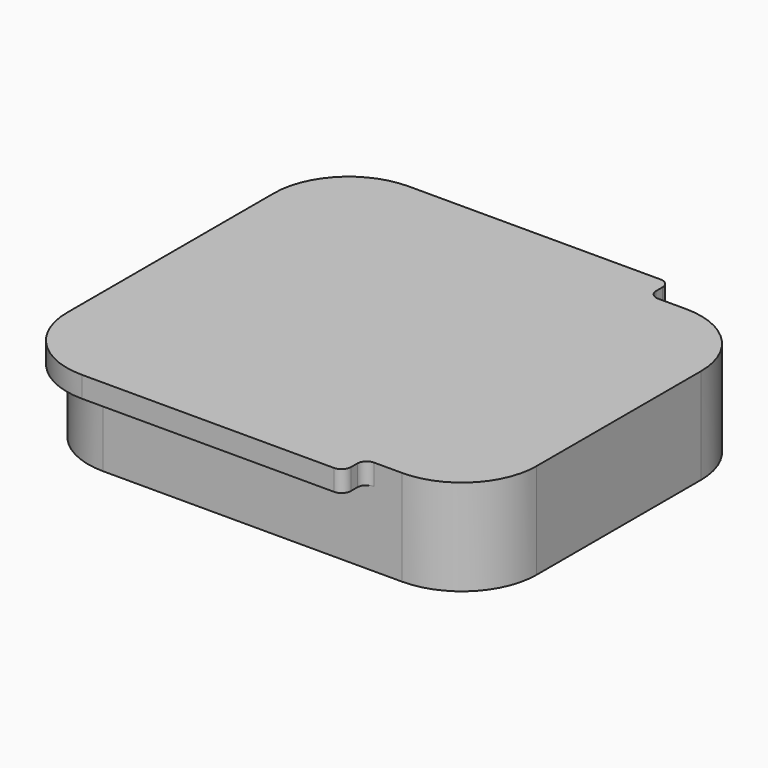
from build123d import *

# Parameters (mm, degrees)
F1_DEPTH = 10.25
F2_W     = 36
F2_H     = 43.7
F3_DEPTH = 2.25
F4_R     = 8
F5_R     = 1
F6_R     = 1
F8_DEPTH = 8
F9_DEPTH = 2.5


with BuildPart() as f1:
    # F0 (on Top) → F1 (new body)
    with BuildSketch(Plane.XY):
        with BuildLine():
            Line((16, 19), (-16, 19))
            ThreePointArc((-16, 19), (-21.6568542495, 16.6568542495), (-24, 11))
            Line((-24, 11), (-24, -11))
            ThreePointArc((-24, -11), (-21.6568542495, -16.6568542495), (-16, -19))
            Line((-16, -19), (16, -19))
            ThreePointArc((16, -19), (21.6568542495, -16.6568542495), (24, -11))
            Line((24, -11), (24, 11))
            ThreePointArc((24, 11), (21.6568542495, 16.6568542495), (16, 19))
        make_face()
    extrude(amount=F1_DEPTH)

    # F2 (on face) → F3 (join)
    with BuildSketch(Plane.XY.offset(10.25)):
        with Locations((-6, 0)):
            Rectangle(F2_W, F2_H)
    extrude(amount=-F3_DEPTH)

    # F4
    f4_edges = [f1.edges().sort_by_distance(p)[0] for p in [
        (-24, -21.85, 9.125),
        (-24, 21.85, 9.125),
    ]]
    fillet(f4_edges, radius=F4_R)

    # F5
    f5_edges = [f1.edges().sort_by_distance(p)[0] for p in [
        (12, -21.85, 9.125),
        (12, 21.85, 9.125),
    ]]
    fillet(f5_edges, radius=F5_R)

    # F6
    f6_edges = [f1.edges().sort_by_distance(p)[0] for p in [
        (12, 19, 9.125),
        (12, -19, 9.125),
    ]]
    fillet(f6_edges, radius=F6_R)

    # F7 (on face) → F8 (cut)
    with BuildSketch(Plane(origin=(0, 0, 0), x_dir=(1, 0, 0), z_dir=(0, 0, -1))):
        with BuildLine():
            ThreePointArc((22.1, 11), (20.3133513652, 15.3133513652), (16, 17.1))
            Line((16, 17.1), (-16, 17.1))
            ThreePointArc((-16, 17.1), (-20.3133513652, 15.3133513652), (-22.1, 11))
            Line((-22.1, 11), (-22.1, -11))
            ThreePointArc((-22.1, -11), (-20.3133513652, -15.3133513652), (-16, -17.1))
            Line((-16, -17.1), (16, -17.1))
            ThreePointArc((16, -17.1), (20.3133513652, -15.3133513652), (22.1, -11))
            Line((22.1, -11), (22.1, 11))
        make_face()
    extrude(amount=-F8_DEPTH, mode=Mode.SUBTRACT)

    # F7 (on face) → F9 (cut)
    with BuildSketch(Plane(origin=(0, 0, 0), x_dir=(1, 0, 0), z_dir=(0, 0, -1))):
        with BuildLine():
            Line((23.1, -11), (23.1, 11))
            ThreePointArc((23.1, 11), (21.0204581464, 16.0204581464), (16, 18.1))
            Line((16, 18.1), (-16, 18.1))
            ThreePointArc((-16, 18.1), (-21.0204581464, 16.0204581464), (-23.1, 11))
            Line((-23.1, 11), (-23.1, -11))
            ThreePointArc((-23.1, -11), (-21.0204581464, -16.0204581464), (-16, -18.1))
            Line((-16, -18.1), (16, -18.1))
            ThreePointArc((16, -18.1), (21.0204581464, -16.0204581464), (23.1, -11))
        make_face()
        with BuildLine():
            Line((-16, 17.1), (16, 17.1))
            ThreePointArc((16, 17.1), (20.3133513652, 15.3133513652), (22.1, 11))
            Line((22.1, 11), (22.1, -11))
            ThreePointArc((22.1, -11), (20.3133513652, -15.3133513652), (16, -17.1))
            Line((16, -17.1), (-16, -17.1))
            ThreePointArc((-16, -17.1), (-20.3133513652, -15.3133513652), (-22.1, -11))
            Line((-22.1, -11), (-22.1, 11))
            ThreePointArc((-22.1, 11), (-20.3133513652, 15.3133513652), (-16, 17.1))
        make_face(mode=Mode.SUBTRACT)
    extrude(amount=-F9_DEPTH, mode=Mode.SUBTRACT)


solid = f1.part
